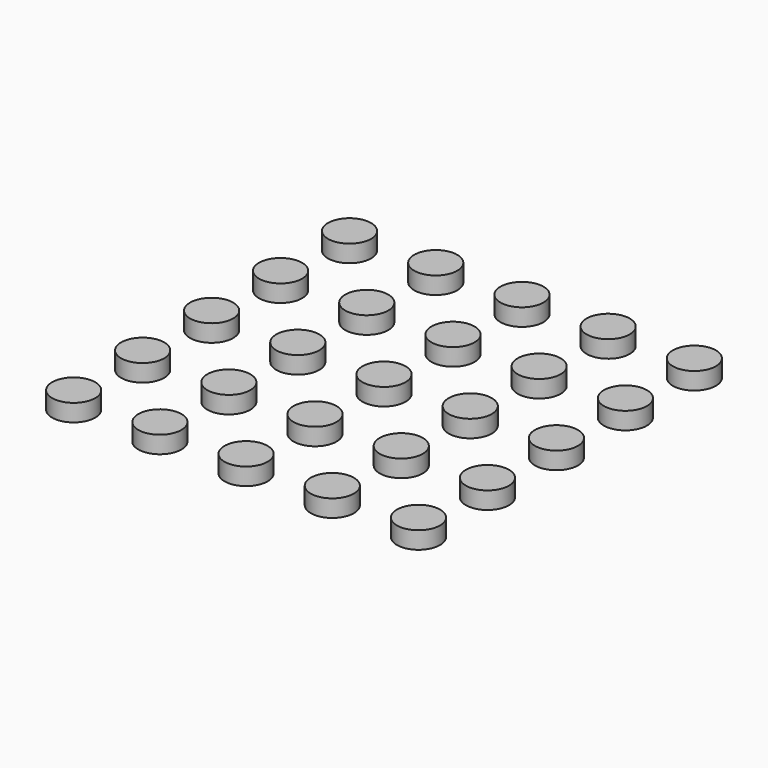
from build123d import *

# Parameters (mm, degrees)
F0_R     = 3.175
F1_DEPTH = 2.54


with BuildPart() as f1:
    # F0 (on Top) → F1 (new body)
    with BuildSketch(Plane.XY):
        with Locations((-59.638817, -43.161038)):
            Circle(F0_R)
        with Locations((-59.638817, -30.461038)):
            Circle(F0_R)
        with Locations((-59.638817, -17.761038)):
            Circle(F0_R)
        with Locations((-59.638817, -5.061038)):
            Circle(F0_R)
        with Locations((-59.638817, 7.638962)):
            Circle(F0_R)
        with Locations((-46.938817, -43.161038)):
            Circle(F0_R)
        with Locations((-46.938817, -30.461038)):
            Circle(F0_R)
        with Locations((-46.938817, -17.761038)):
            Circle(F0_R)
        with Locations((-46.938817, -5.061038)):
            Circle(F0_R)
        with Locations((-46.938817, 7.638962)):
            Circle(F0_R)
        with Locations((-34.238817, -43.161038)):
            Circle(F0_R)
        with Locations((-34.238817, -30.461038)):
            Circle(F0_R)
        with Locations((-34.238817, -17.761038)):
            Circle(F0_R)
        with Locations((-34.238817, -5.061038)):
            Circle(F0_R)
        with Locations((-34.238817, 7.638962)):
            Circle(F0_R)
        with Locations((-21.538817, -43.161038)):
            Circle(F0_R)
        with Locations((-21.538817, -30.461038)):
            Circle(F0_R)
        with Locations((-21.538817, -17.761038)):
            Circle(F0_R)
        with Locations((-21.538817, -5.061038)):
            Circle(F0_R)
        with Locations((-21.538817, 7.638962)):
            Circle(F0_R)
        with Locations((-8.838817, -43.161038)):
            Circle(F0_R)
        with Locations((-8.838817, -30.461038)):
            Circle(F0_R)
        with Locations((-8.838817, -17.761038)):
            Circle(F0_R)
        with Locations((-8.838817, -5.061038)):
            Circle(F0_R)
        with Locations((-8.838817, 7.638962)):
            Circle(F0_R)
    extrude(amount=F1_DEPTH)


solid = f1.part
